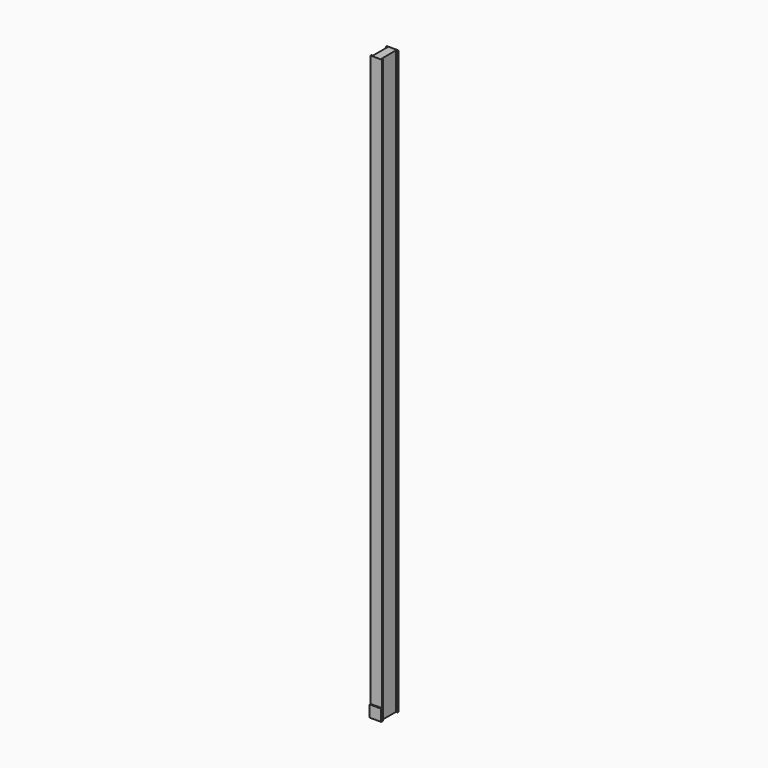
from build123d import *

# Parameters (mm, degrees)
F1_DEPTH = 500.5
F2_W     = 10
F2_H     = 10
F3_DEPTH = 1


with BuildPart() as f1:
    # F0 (on Top) → F1 (new body)
    with BuildSketch(Plane.XY):
        Polygon((5, 15.438399), (-5, 15.438399), (-5, 14.438399), (-3.67, 14.438399), (-3.67, -1.142601), (-5, -1.142601), (-5, -2.142601), (5, -2.142601), (5, -1.142601), (3.67, -1.142601), (3.67, 14.438399), (5, 14.438399), align=None)
    extrude(amount=F1_DEPTH)

    # F2 (on face) → F3 (join)
    with BuildSketch(Plane.XZ.offset(2.142601)):
        with Locations((0, 5)):
            Rectangle(F2_W, F2_H)
    extrude(amount=F3_DEPTH)


solid = f1.part
